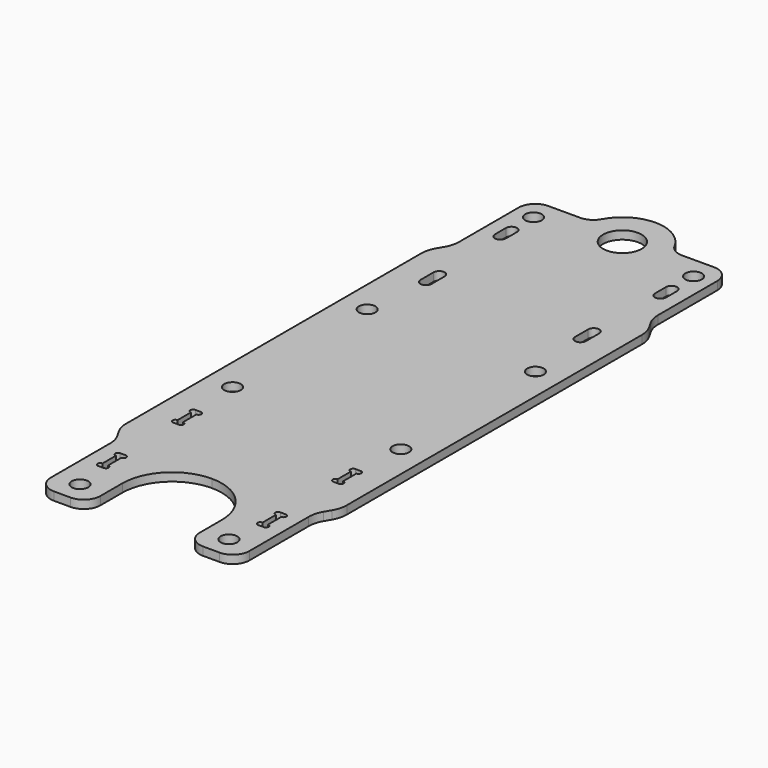
from build123d import *

# Parameters (mm, degrees)
F0_R     = 1.5
F0_R_2   = 3.5
F1_DEPTH = 1.5
F3_DEPTH = 1.501
F5_DEPTH = 1.501
F6_R     = 5


with BuildPart() as f1:
    # F0 (on Top) → F1 (new body)
    with BuildSketch(Plane.XY):
        with BuildLine():
            Line((-9.233093, 56), (-15, 56))
            ThreePointArc((-15, 56), (-17.12132, 55.12132), (-18, 53))
            Line((-18, 53), (-18, 38.214102))
            Line((-18, 38.214102), (-20, 34.75))
            Line((-20, 34.75), (-20, -34.75))
            Line((-20, -34.75), (-18, -38.214102))
            Line((-18, -38.214102), (-18, -53))
            ThreePointArc((-18, -53), (-17.12132, -55.12132), (-15, -56))
            Line((-15, -56), (-12, -56))
            ThreePointArc((-12, -56), (-9.87868, -55.12132), (-9, -53))
            Line((-9, -53), (-9, -48))
            ThreePointArc((-9, -48), (-6.363961, -41.636039), (0, -39))
            ThreePointArc((0, -39), (6.363961, -41.636039), (9, -48))
            Line((9, -48), (9, -53))
            ThreePointArc((9, -53), (9.87868, -55.12132), (12, -56))
            Line((12, -56), (15, -56))
            ThreePointArc((15, -56), (17.12132, -55.12132), (18, -53))
            Line((18, -53), (18, -38.214102))
            Line((18, -38.214102), (20, -34.75))
            Line((20, -34.75), (20, 34.75))
            Line((20, 34.75), (18, 38.214102))
            Line((18, 38.214102), (18, 53))
            ThreePointArc((18, 53), (17.12132, 55.12132), (15, 56))
            Line((15, 56), (9.233093, 56))
            ThreePointArc((9.233093, 56), (7.697794, 56.422626), (6.595066, 57.571429))
            ThreePointArc((6.595066, 57.571429), (0, 61.5), (-6.595066, 57.571429))
            ThreePointArc((-6.595066, 57.571429), (-7.697794, 56.422626), (-9.233093, 56))
        make_face()
        with Locations((-13.5, -52)):
            Circle(F0_R, mode=Mode.SUBTRACT)
        with Locations((-15.25, -15.25)):
            Circle(F0_R, mode=Mode.SUBTRACT)
        with Locations((13.5, -52)):
            Circle(F0_R, mode=Mode.SUBTRACT)
        with Locations((15.25, -15.25)):
            Circle(F0_R, mode=Mode.SUBTRACT)
        with Locations((-15.25, 15.25)):
            Circle(F0_R, mode=Mode.SUBTRACT)
        with BuildLine():
            Line((-15, 27), (-15, 30))
            ThreePointArc((-15, 30), (-14, 31), (-13, 30))
            Line((-13, 30), (-13, 27))
            ThreePointArc((-13, 27), (-14, 26), (-15, 27))
        make_face(mode=Mode.SUBTRACT)
        with Locations((-14.5, 52)):
            Circle(F0_R, mode=Mode.SUBTRACT)
        with Locations((15.25, 15.25)):
            Circle(F0_R, mode=Mode.SUBTRACT)
        with BuildLine():
            Line((13, 27), (13, 30))
            ThreePointArc((13, 30), (14, 31), (15, 30))
            Line((15, 30), (15, 27))
            ThreePointArc((15, 27), (14, 26), (13, 27))
        make_face(mode=Mode.SUBTRACT)
        with Locations((0, 54)):
            Circle(F0_R_2, mode=Mode.SUBTRACT)
        with Locations((14.5, 52)):
            Circle(F0_R, mode=Mode.SUBTRACT)
    extrude(amount=F1_DEPTH)

    # F2 (on face) → F3 (cut, through all)
    with BuildSketch(Plane.XY.offset(1.5)):
        with BuildLine():
            Line((-14, -41), (-15, -41))
            ThreePointArc((-15, -41), (-15.5, -41.5), (-15, -42))
            Line((-15, -42), (-15, -45))
            ThreePointArc((-15, -45), (-15.5, -45.5), (-15, -46))
            Line((-15, -46), (-14, -46))
            ThreePointArc((-14, -46), (-13.5, -45.5), (-14, -45))
            Line((-14, -45), (-14, -42))
            ThreePointArc((-14, -42), (-13.5, -41.5), (-14, -41))
        make_face()
        with BuildLine():
            Line((-14, -24), (-15, -24))
            ThreePointArc((-15, -24), (-15.5, -24.5), (-15, -25))
            Line((-15, -25), (-15, -28))
            ThreePointArc((-15, -28), (-15.5, -28.5), (-15, -29))
            Line((-15, -29), (-14, -29))
            ThreePointArc((-14, -29), (-13.5, -28.5), (-14, -28))
            Line((-14, -28), (-14, -25))
            ThreePointArc((-14, -25), (-13.5, -24.5), (-14, -24))
        make_face()
        with BuildLine():
            ThreePointArc((15, -29), (15.5, -28.5), (15, -28))
            Line((15, -28), (15, -25))
            ThreePointArc((15, -25), (15.5, -24.5), (15, -24))
            Line((15, -24), (14, -24))
            ThreePointArc((14, -24), (13.5, -24.5), (14, -25))
            Line((14, -25), (14, -28))
            ThreePointArc((14, -28), (13.5, -28.5), (14, -29))
            Line((14, -29), (15, -29))
        make_face()
        with BuildLine():
            Line((14, -46), (15, -46))
            ThreePointArc((15, -46), (15.5, -45.5), (15, -45))
            Line((15, -45), (15, -42))
            ThreePointArc((15, -42), (15.5, -41.5), (15, -41))
            Line((15, -41), (14, -41))
            ThreePointArc((14, -41), (13.5, -41.5), (14, -42))
            Line((14, -42), (14, -45))
            ThreePointArc((14, -45), (13.5, -45.5), (14, -46))
        make_face()
    extrude(amount=-F3_DEPTH, mode=Mode.SUBTRACT)

    # F4 (on face) → F5 (cut, through all)
    with BuildSketch(Plane.XY.offset(1.5)):
        with BuildLine():
            Line((-13.5, 44.5), (-13.5, 47))
            ThreePointArc((-13.5, 47), (-14.5, 48), (-15.5, 47))
            Line((-15.5, 47), (-15.5, 44.5))
            ThreePointArc((-15.5, 44.5), (-14.5, 43.5), (-13.5, 44.5))
        make_face()
        with BuildLine():
            ThreePointArc((15.5, 47), (14.5, 48), (13.5, 47))
            Line((13.5, 47), (13.5, 44.5))
            ThreePointArc((13.5, 44.5), (14.5, 43.5), (15.5, 44.5))
            Line((15.5, 44.5), (15.5, 47))
        make_face()
    extrude(amount=-F5_DEPTH, mode=Mode.SUBTRACT)

    # F6
    f6_edges = [f1.edges().sort_by_distance(p)[0] for p in [
        (-20, 34.75, 0.75),
        (20, 34.75, 0.75),
        (20, -34.75, 0.75),
        (-20, -34.75, 0.75),
        (-18, -38.214102, 0.75),
        (18, -38.214102, 0.75),
        (18, 38.214102, 0.75),
        (-18, 38.214102, 0.75),
    ]]
    fillet(f6_edges, radius=F6_R)


solid = f1.part
